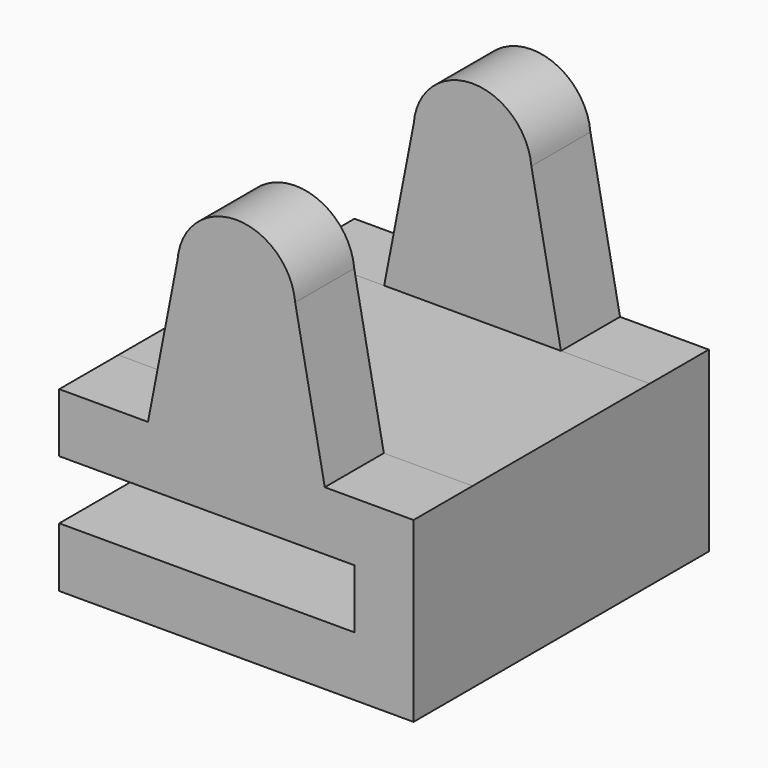
from build123d import *

# Parameters (mm, degrees)
PAD_DEPTH         = 25
SKETCH001_W       = 15
SKETCH001_H       = 16.832567
POCKET_DEPTH      = 0.001
POCKET_DEPTH_BACK = -24.001


with BuildPart() as part:
    # Sketch → Pad (new body)
    with BuildSketch(Plane.XZ):
        with BuildLine():
            Line((0, 0), (20, 0))
            Line((20, 0), (20, -4))
            Line((20, -4), (0, -4))
            Line((0, -4), (0, -8.041044))
            Line((0, -8.041044), (24, -8.041044))
            Line((24, -8.041044), (24, 4))
            Line((24, 4), (17.988441, 4))
            Line((15.983215, 14.366061), (17.988441, 4))
            ThreePointArc((15.983215, 14.366061), (11.968793, 17.999878), (8.011559, 14.303867))
            Line((8.011559, 14.303867), (6.011559, 4))
            Line((6.011559, 4), (0, 4))
            Line((0, 4), (0, 0))
        make_face()
    extrude(amount=PAD_DEPTH)

    # Sketch001 → Pocket (cut, two sides)
    with BuildSketch(Plane.YZ) as pocket_sk:
        with Locations((-12.5, 12.416283)):
            Rectangle(SKETCH001_W, SKETCH001_H)
    extrude(amount=-POCKET_DEPTH, mode=Mode.SUBTRACT)
    extrude(pocket_sk.sketch, amount=-POCKET_DEPTH_BACK, mode=Mode.SUBTRACT)


solid = part.part
